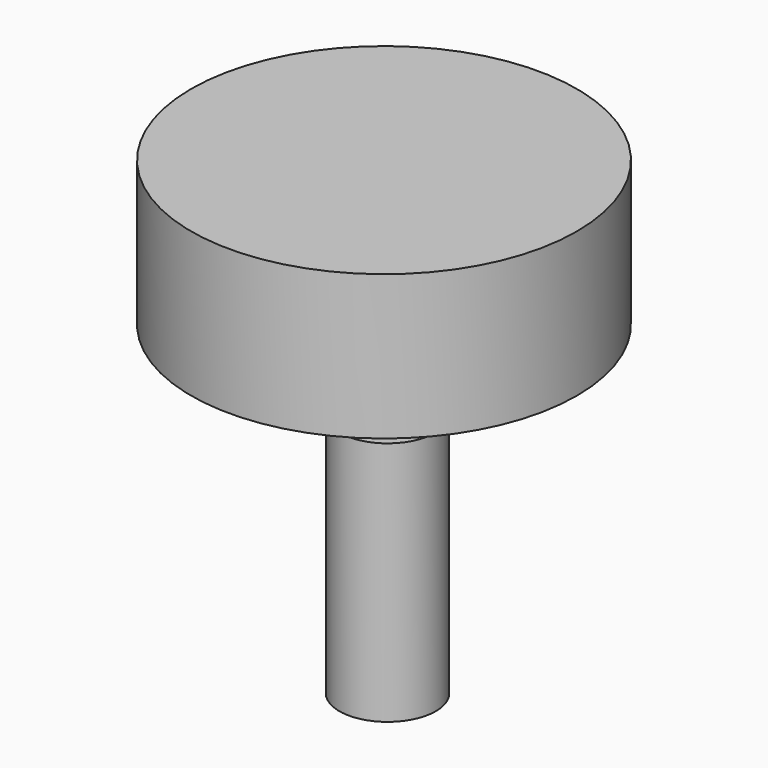
from build123d import *

# Parameters (mm, degrees)
F0_R     = 50.8
F1_DEPTH = 258.318
F3_R     = 203.2
F4_DEPTH = 152.4


with BuildPart() as f1:
    # F0 (on Top) → F1 (new body)
    with BuildSketch(Plane.XY):
        Circle(F0_R)
    extrude(amount=F1_DEPTH)


with BuildPart() as f4:
    # F3 (on offset) → F4 (new body)
    with BuildSketch(Plane.XY.offset(334.518)):
        with Locations((-11.446288, 9.636095)):
            Circle(F3_R)
    extrude(amount=F4_DEPTH)


solid = Compound([f1.part, f4.part])
